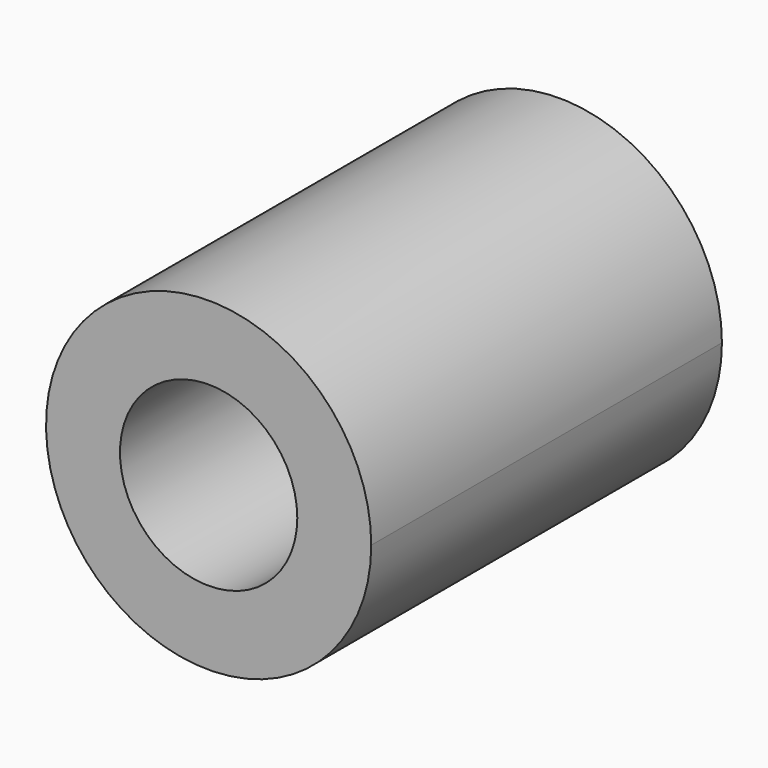
from build123d import *

# Parameters (mm, degrees)
F0_R     = 28.256528
F1_DEPTH = 139.7


with BuildPart() as f1:
    # F0 (on Front) → F1 (new body)
    with BuildSketch(Plane.XZ):
        with BuildLine():
            ThreePointArc((-9.235148, -50.994995), (33.220255, -39.776779), (51.824487, 0))
            ThreePointArc((51.824487, 0), (-8.551344, 51.114107), (-49.002443, -16.868255))
            Line((-49.002443, -16.868255), (-29.229837, -16.868255))
            Line((-29.229837, -16.868255), (-9.235148, -50.994995))
        make_face()
        Circle(F0_R, mode=Mode.SUBTRACT)
        with BuildLine():
            Line((-29.229837, -16.868255), (-49.002443, -16.868255))
            ThreePointArc((-49.002443, -16.868255), (-33.750005, -39.328293), (-9.235148, -50.994995))
            Line((-9.235148, -50.994995), (-29.229837, -16.868255))
        make_face()
    extrude(amount=F1_DEPTH)


solid = f1.part
